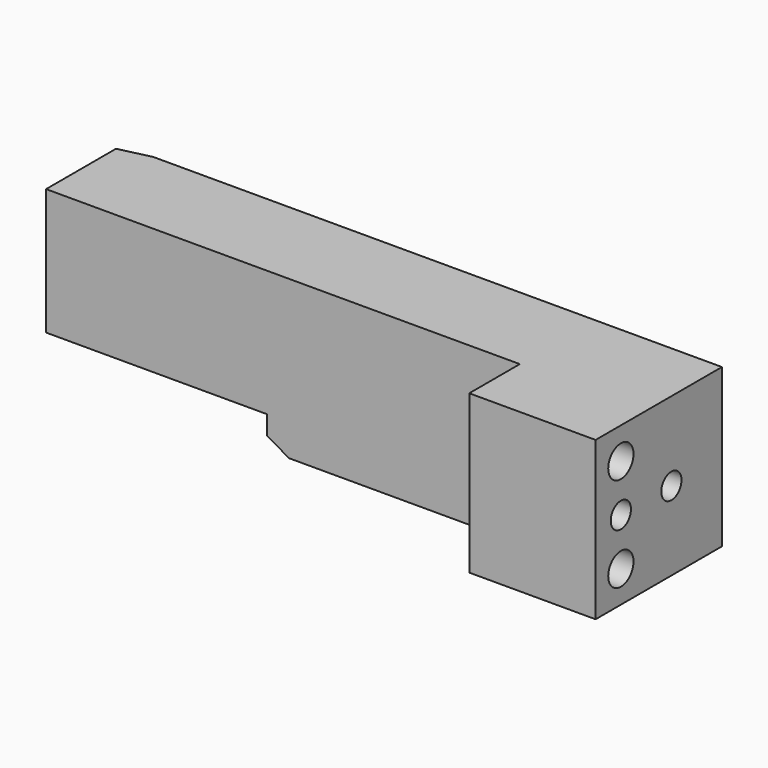
from build123d import *

# Parameters (mm, degrees)
F0_W     = 6
F0_H     = 2
F0_W_2   = 3.464102
F0_H_2   = 20
F0_W_3   = 20
F0_H_3   = 5
F1_DEPTH = 25
F3_DEPTH = 25.001
F4_R     = 2.5
F5_DEPTH = 20.001
F6_R     = 2
F7_DEPTH = 6
F8_SIZE2 = 1.154341
F8_SIZE  = 5


with BuildPart() as f1:
    # F0 (on Front) → F1 (new body)
    with BuildSketch(Plane.XZ):
        with Locations((68.386151, -81.697741)):
            Rectangle(F0_W, F0_H)
        with Locations((68.386151, -83.697741)):
            Rectangle(F0_W, F0_H)
        Polygon((51.386151, -75.197741), (51.386151, -70.197741), (-20.149747, -70.197741), (-20.149747, -90.197741), (11.386151, -90.197741), (11.386151, -93.197741), (14.850253, -95.197741), (51.386151, -95.197741), (51.386151, -90.197741), align=None)
        with Locations((-21.881798, -80.197741)):
            Rectangle(F0_W_2, F0_H_2)
        with Locations((61.386151, -72.697741)):
            Rectangle(F0_W_3, F0_H_3)
        with Locations((61.386151, -92.697741)):
            Rectangle(F0_W_3, F0_H_3)
        Polygon((71.386151, -80.697741), (71.386151, -75.197741), (51.386151, -75.197741), (51.386151, -90.197741), (71.386151, -90.197741), (71.386151, -84.697741), (65.386151, -84.697741), (64.231451, -82.697741), (65.386151, -80.697741), align=None)
        Polygon((65.386151, -82.697741), (65.386151, -80.697741), (64.231451, -82.697741), align=None)
        Polygon((65.386151, -84.697741), (65.386151, -82.697741), (64.231451, -82.697741), align=None)
    extrude(amount=F1_DEPTH)

    # F2 (on face) → F3 (cut, through all)
    with BuildSketch(Plane.XY.offset(-70.197741)):
        Polygon((-23.613849, -25), (51.386151, -25), (51.386151, -20), (51.386151, -15), (11.386151, -15), (-23.613849, -15), align=None)
    extrude(amount=-F3_DEPTH, mode=Mode.SUBTRACT)

    # F4 (on face) → F5 (cut, through all)
    with BuildSketch(Plane(origin=(51.386151, 0, 0), x_dir=(0, -1, 0), z_dir=(-1, 0, 0))):
        with Locations((20, -75.197741)):
            Circle(F4_R)
        with Locations((20, -90.197741)):
            Circle(F4_R)
    extrude(amount=-F5_DEPTH, mode=Mode.SUBTRACT)

    # F6 (on face) → F7 (cut)
    with BuildSketch(Plane.YZ.offset(71.386151)):
        with Locations((-20, -82.697741)):
            Circle(F6_R)
        with Locations((-10, -82.697741)):
            Circle(F6_R)
    extrude(amount=-F7_DEPTH, mode=Mode.SUBTRACT)

    # F8
    f8_edges = [f1.edges().sort_by_distance(p)[0] for p in [
        (-23.613849, 0, -80.197741),
    ]]
    chamfer(f8_edges, length=F8_SIZE, length2=F8_SIZE2)


solid = f1.part
